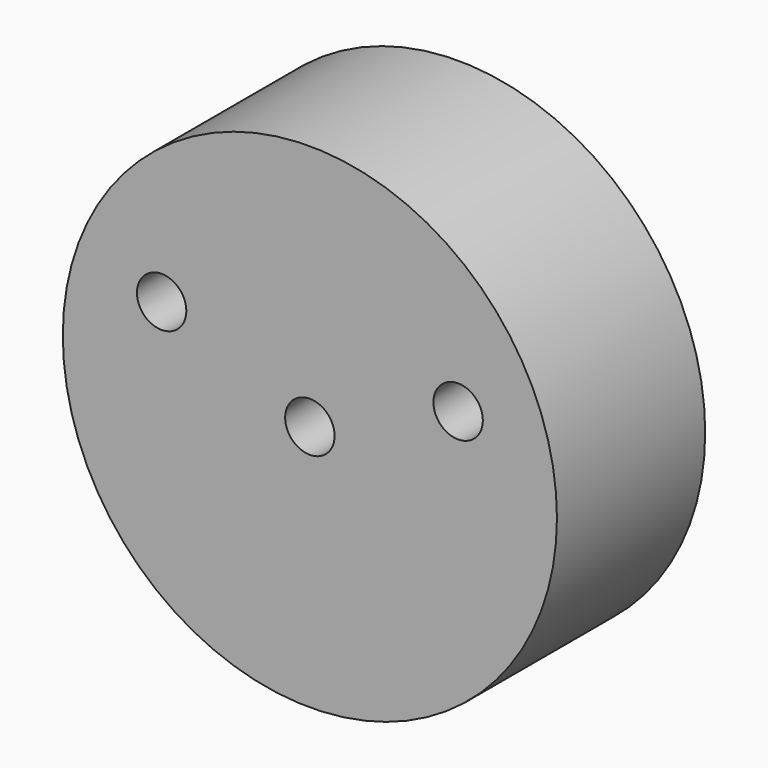
from build123d import *

# Parameters (mm, degrees)
F0_R     = 20
F0_R_2   = 2
F1_DEPTH = 15


with BuildPart() as f1:
    # F0 (on Front) → F1 (new body)
    with BuildSketch(Plane.XZ):
        Circle(F0_R)
        with Locations((-12, 5)):
            Circle(F0_R_2, mode=Mode.SUBTRACT)
        Circle(F0_R_2, mode=Mode.SUBTRACT)
        with Locations((12, 5)):
            Circle(F0_R_2, mode=Mode.SUBTRACT)
    extrude(amount=F1_DEPTH)


solid = f1.part
